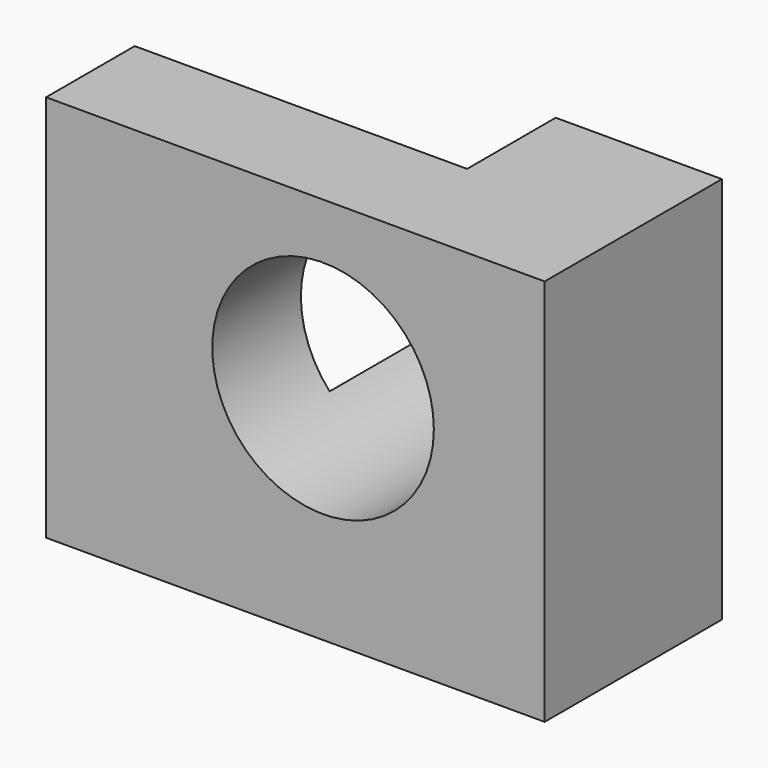
from build123d import *

# Parameters (mm, degrees)
F0_W     = 57.15
F0_H     = 44.45
F1_DEPTH = 25.4
F3_DEPTH = 12.7
F4_R     = 12.7
F5_DEPTH = 25.401


with BuildPart() as f1:
    # F0 (on Front) → F1 (new body)
    with BuildSketch(Plane.XZ):
        with Locations((28.575, 22.225)):
            Rectangle(F0_W, F0_H)
    extrude(amount=F1_DEPTH)

    # F2 (on Front) → F3 (cut)
    with BuildSketch(Plane.XZ):
        Polygon((0, 0), (12.7, 0), (38.1, 44.45), (0, 44.45), align=None)
    extrude(amount=F3_DEPTH, mode=Mode.SUBTRACT)

    # F4 (on Front) → F5 (cut, through all)
    with BuildSketch(Plane.XZ):
        with Locations((31.75, 25.4)):
            Circle(F4_R)
    extrude(amount=F5_DEPTH, mode=Mode.SUBTRACT)


solid = f1.part
